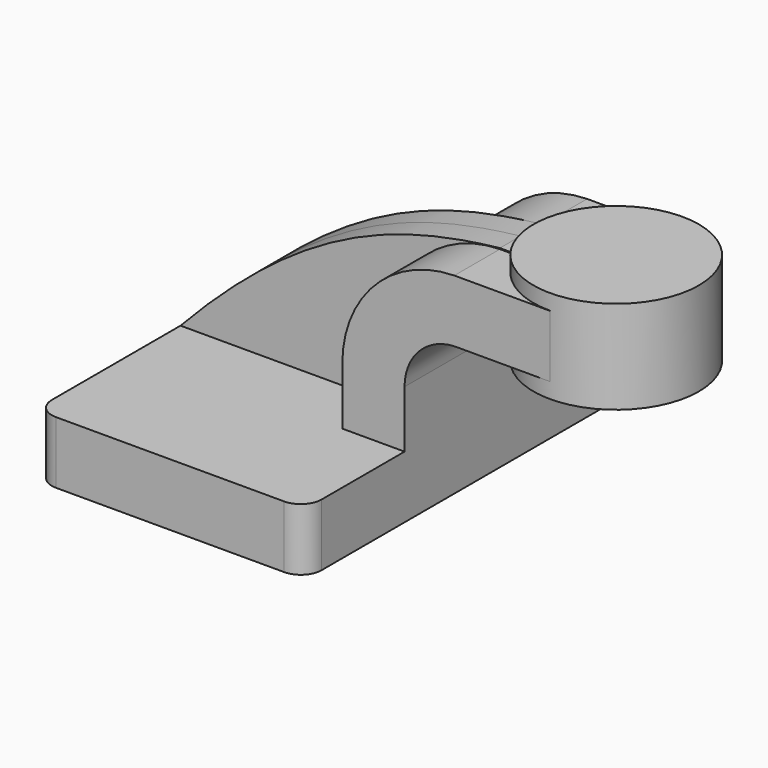
from build123d import *

# Parameters (mm, degrees)
F1_DEPTH = 63.5
F0_W     = 25.4827047348
F0_H     = 19.05
F2_DEPTH = 25.4
F3_DEPTH = 7.9375
F5_R     = 6.35
F6_R     = 6.35


with BuildPart() as f1:
    # F0 (on Front) → F1 (new body, symmetric)
    with BuildSketch(Plane.XZ):
        Polygon((41.275, -9.525), (41.275, 9.525), (22.225, 9.525), (-41.275, 9.525), (-41.275, -9.525), align=None)
    extrude(amount=F1_DEPTH, both=True)

    # F0 (on Front) → F2 (join, symmetric)
    with BuildSketch(Plane.XZ):
        with BuildLine():
            Line((22.225, 9.525), (41.275, 9.525))
            Line((41.275, 9.525), (41.275, 27.0061871217))
            ThreePointArc((41.275, 27.0061871217), (45.7715909854, 38.0763015427), (56.7140467144, 42.8752))
            Line((56.7140467144, 42.8752), (60.2422952652, 42.8752))
            Line((60.2422952652, 42.8752), (60.2422952652, 61.9252))
            Line((60.2422952652, 61.9252), (56.5033435204, 61.9252))
            ThreePointArc((56.5033435204, 61.9252), (32.2267166835, 51.4721956585), (22.225, 27.0061871217))
            Line((22.225, 27.0061871217), (22.225, 9.525))
        make_face()
        with Locations((72.9836476326, 52.4002)):
            Rectangle(F0_W, F0_H)
    extrude(amount=F2_DEPTH, both=True)

    # F0 (on Front) → F3 (join, symmetric)
    with BuildSketch(Plane.XZ):
        with BuildLine():
            Line((-41.275, 9.525), (22.225, 9.525))
            Line((22.225, 9.525), (22.225, 27.0061871217))
            ThreePointArc((22.225, 27.0061871217), (32.2267166835, 51.4721956585), (56.5033435204, 61.9252))
            Line((56.5033435204, 61.9252), (60.2422952652, 61.9252))
            Line((60.2422952652, 61.9252), (60.2422952652, 62.2294992208))
            Line((60.2422952652, 62.2294992208), (56.5033435204, 62.2294992208))
            add(Edge.make_bspline(
                [(-41.275, 9.525), (-3.9314110763, 49.0912124515), (24.1732224822, 58.5743710399), (56.5033435204, 62.2294992208)],
                knots=[0, 0, 0, 0, 111.0782098331, 111.0782098331, 111.0782098331, 111.0782098331], degree=3))
        make_face()
    extrude(amount=F3_DEPTH, both=True)

    # F0 (on Front) → F4 (revolve)
    with BuildSketch(Plane.XZ):
        Polygon((85.725, 61.9252), (85.725, 42.8752), (85.725, 38.1), (111.0422952652, 38.1), (111.0422952652, 66.675), (85.725, 66.675), (85.725, 62.2294992208), align=None)
    revolve(axis=Axis((85.725, 0, 52.5523496104), (0, 0, -1)))

    # F5
    f5_edges = [f1.edges().sort_by_distance(p)[0] for p in [
        (41.275, -63.5, 0),
        (41.275, 63.5, 0),
    ]]
    fillet(f5_edges, radius=F5_R)

    # F6
    f6_edges = [f1.edges().sort_by_distance(p)[0] for p in [
        (-41.275, -63.5, 0),
        (-41.275, 63.5, 0),
    ]]
    fillet(f6_edges, radius=F6_R)


solid = f1.part
